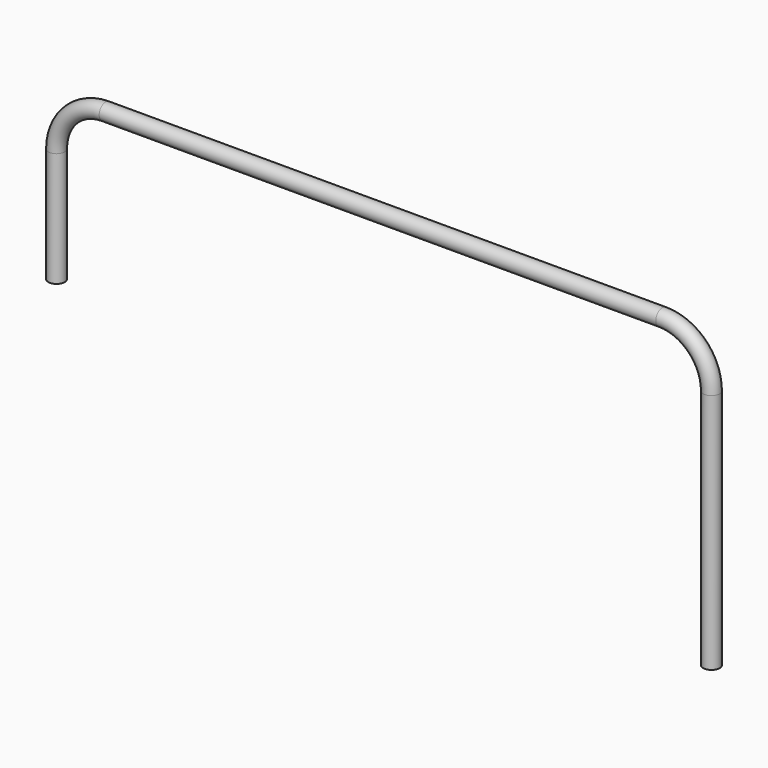
from build123d import *

# Parameters (mm, degrees)
F1_R = 10


with BuildPart() as f2:
    # F2: sweep along a path in F0
    with BuildLine(Plane.XZ) as f2_path:
        Line((0, 0), (0, 140))
        ThreePointArc((0, 140), (17.573593, 182.426407), (60, 200))
        Line((60, 200), (740, 200))
        ThreePointArc((740, 200), (782.426407, 182.426407), (800, 140))
        Line((800, 140), (800, -155))
    # F1 (on Top) → F2 (sweep)
    with BuildSketch(Plane.XY):
        Circle(F1_R)
    sweep(path=f2_path.line)


solid = f2.part
